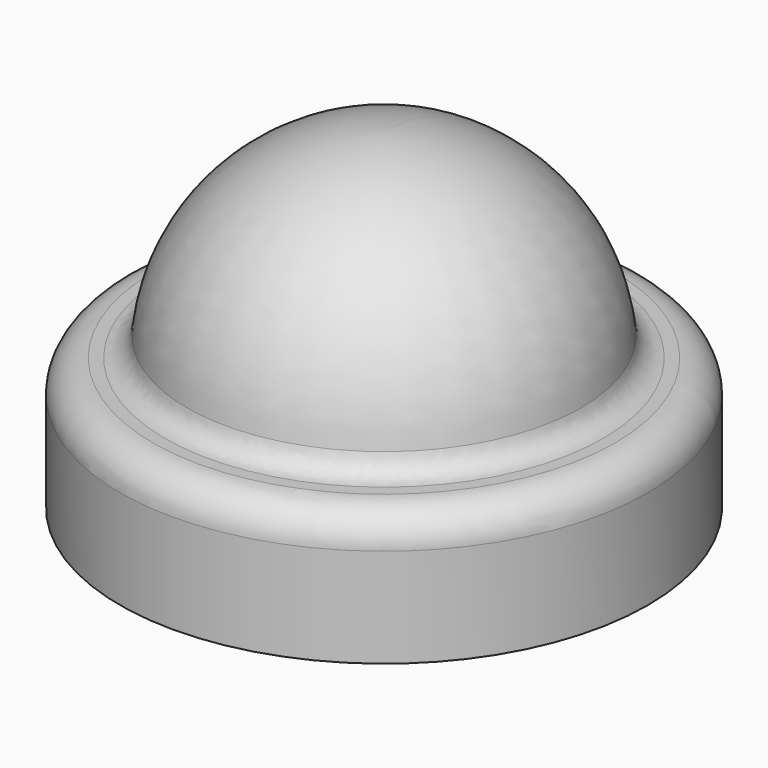
from build123d import *

# Parameters (mm, degrees)
F2_R = 2
F3_R = 3


with BuildPart() as f1:
    # F0 (on Front) → F1 (revolve)
    with BuildSketch(Plane.XZ):
        with BuildLine():
            Line((-20, 0), (0, 0))
            Line((0, 0), (0, 8))
            Line((0, 8), (0, 26))
            ThreePointArc((0, 26), (-12.727922, 20.727922), (-18, 8))
            Line((-18, 8), (-24, 8))
            Line((-24, 8), (-24, -4))
            Line((-24, -4), (-20, -4))
            Line((-20, -4), (-20, 0))
        make_face()
    revolve(axis=Axis((0, 0, 17), (0, 0, 1)))

    # F2
    f2_edges = [f1.edges().sort_by_distance(p)[0] for p in [
        (18, 0, 8),
    ]]
    fillet(f2_edges, radius=F2_R)

    # F3
    f3_edges = [f1.edges().sort_by_distance(p)[0] for p in [
        (24, 0, 8),
    ]]
    fillet(f3_edges, radius=F3_R)


solid = f1.part
